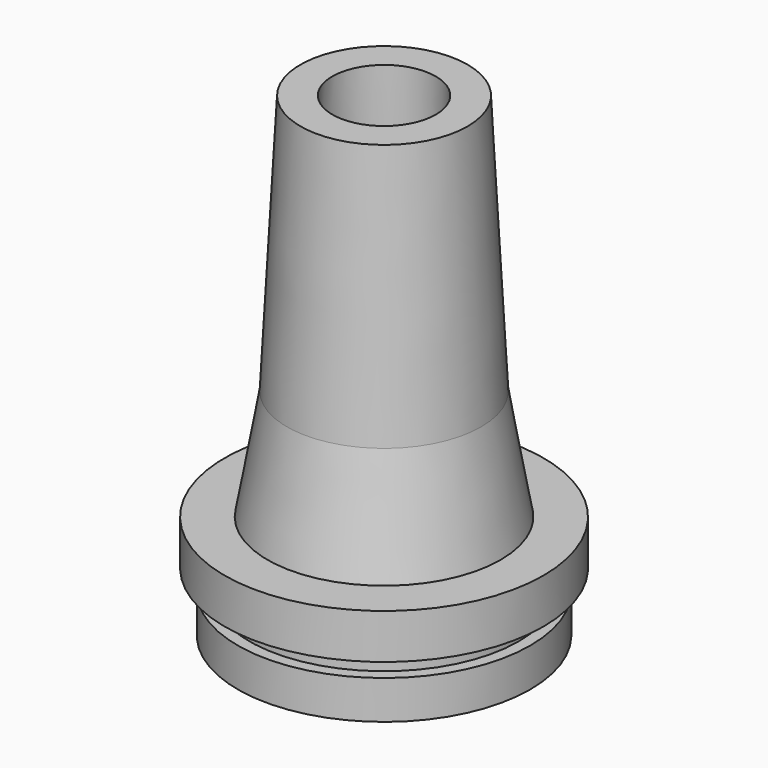
from build123d import *


with BuildPart() as f1:
    # F0 (on Front) → F1 (revolve)
    with BuildSketch(Plane.XZ):
        Polygon((80, 455), (0, 455), (0, 0), (140, 0), (140, 37), (129, 37), (129, 57), (152.5, 57), (152.5, 100), (111.654883, 100), (93, 206), align=None)
    revolve(axis=Axis((0, 0, 44.506), (0, 0, 1)))

    # F2 (on Front) → F3 (revolve, cut)
    with BuildSketch(Plane.XZ):
        Polygon((49.5, 455), (0, 455), (0, 0), (81.5, 0), (51, 316), align=None)
    revolve(axis=Axis((0, 0, 227.5), (0, 0, 1)), mode=Mode.SUBTRACT)


solid = f1.part
